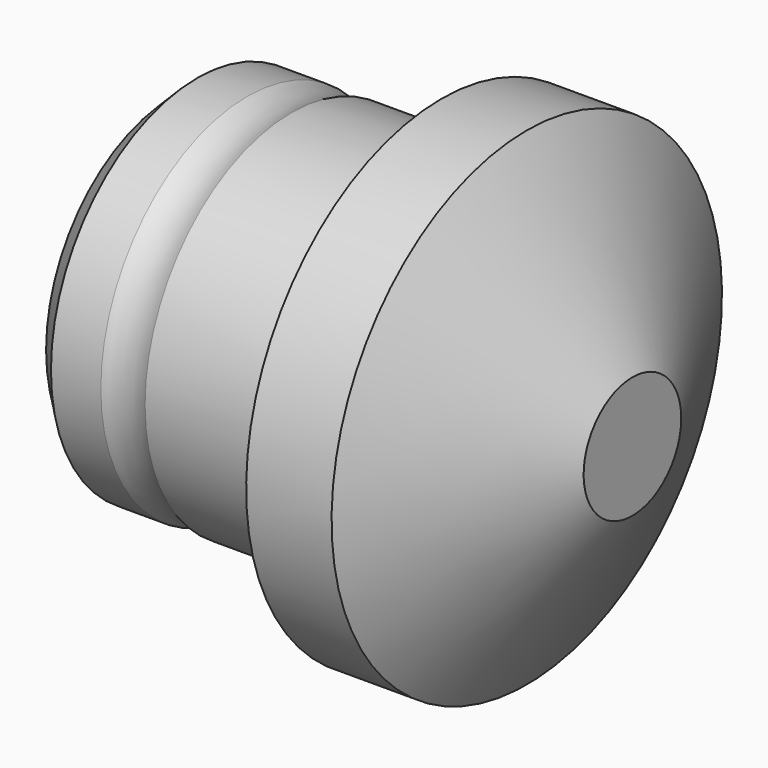
from build123d import *


with BuildPart() as f1:
    # F0 (on Front) → F1 (revolve)
    with BuildSketch(Plane.XZ):
        with BuildLine():
            Line((-126.587485, 0), (0, 0))
            Line((0, 0), (0, 50))
            Line((0, 50), (-86.60254, 200))
            Line((-86.60254, 200), (-156.60254, 200))
            Line((-156.60254, 200), (-156.60254, 150))
            Line((-156.60254, 150), (-276.463263, 150))
            Line((-276.463263, 150), (-279.444389, 150))
            ThreePointArc((-279.444389, 150), (-297.578514, 145.460746), (-315.712638, 150))
            Line((-315.712638, 150), (-356.60254, 150))
            Line((-356.60254, 150), (-376.587485, 130.015055))
            Line((-376.587485, 130.015055), (-376.587485, 70))
            Line((-376.587485, 70), (-276.587485, 70))
            Line((-276.587485, 70), (-276.587485, 50))
            Line((-276.587485, 50), (-126.587485, 50))
            Line((-126.587485, 50), (-126.587485, 0))
        make_face()
    revolve(axis=Axis((-63.293743, 0, 0), (1, 0, 0)))


solid = f1.part
